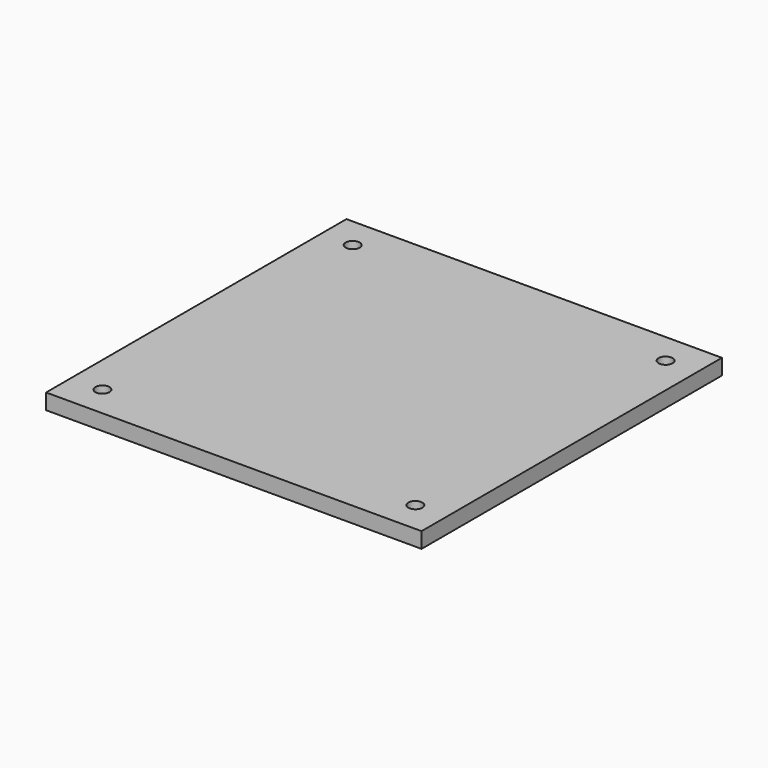
from build123d import *

# Parameters (mm, degrees)
F0_W     = 120
F0_H     = 120
F0_R     = 2.25
F1_DEPTH = 5
F2_SIZE  = 2.5


with BuildPart() as f1:
    # F0 (on Top) → F1 (new body)
    with BuildSketch(Plane.XY):
        Rectangle(F0_W, F0_H)
        with Locations((-50, -50)):
            Circle(F0_R, mode=Mode.SUBTRACT)
        with Locations((50, -50)):
            Circle(F0_R, mode=Mode.SUBTRACT)
        with Locations((-50, 50)):
            Circle(F0_R, mode=Mode.SUBTRACT)
        with Locations((50, 50)):
            Circle(F0_R, mode=Mode.SUBTRACT)
    extrude(amount=F1_DEPTH)

    # F2
    f2_edges = [f1.edges().sort_by_distance(p)[0] for p in [
        (47.75, -50, 0),
        (-52.25, -50, 0),
        (-52.25, 50, 0),
        (47.75, 50, 0),
    ]]
    chamfer(f2_edges, length=F2_SIZE)


solid = f1.part
